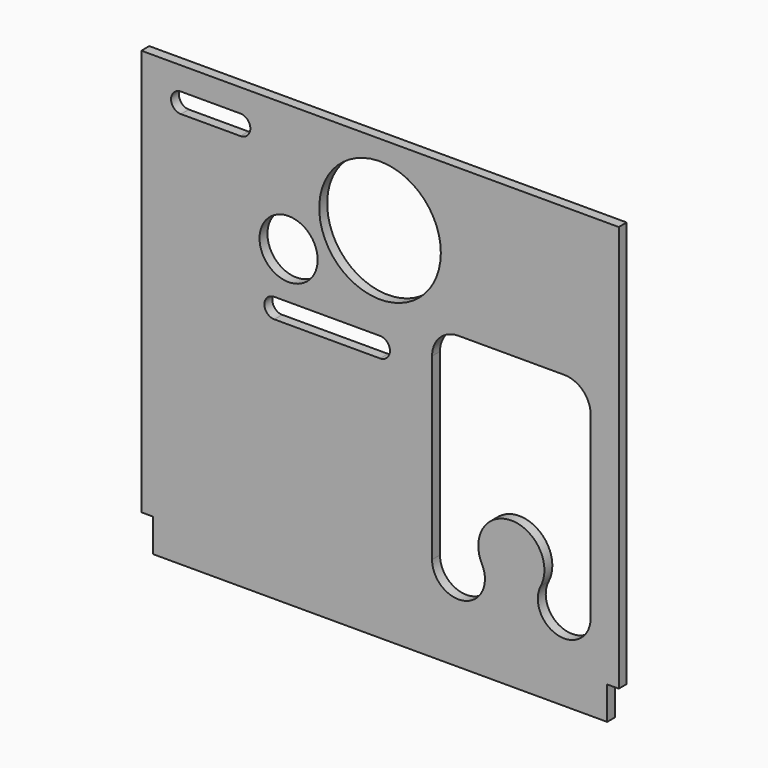
from build123d import *

# Parameters (mm, degrees)
F1_DEPTH = 2.38125
F3_DEPTH = 4.7635
F4_R     = 29.21
F5_DEPTH = 4.7635
F7_DEPTH = 4.7635
F8_R     = 13.97
F9_DEPTH = 4.7635


with BuildPart() as f1:
    # F0 (on Front) → F1 (new body, symmetric)
    with BuildSketch(Plane.XZ):
        Polygon((114.696875, -97.63125), (114.696875, 97.63125), (-114.696875, 97.63125), (-114.696875, -97.63125), (-109.140625, -97.63125), (-109.140625, -113.50625), (109.140625, -113.50625), (109.140625, -97.63125), align=None)
    extrude(amount=F1_DEPTH, both=True)

    # F2 (on face) → F3 (cut, through all)
    with BuildSketch(Plane.XZ.offset(2.38125)):
        with BuildLine():
            Line((25.003125, 13.88461), (25.003125, -72.23125))
            ThreePointArc((25.003125, -72.23125), (40.696544, -84.573432), (48.992014, -66.41309))
            ThreePointArc((48.992014, -66.41309), (63.103125, -43.26539), (77.214236, -66.41309))
            ThreePointArc((77.214236, -66.41309), (85.509706, -84.573432), (101.203125, -72.23125))
            Line((101.203125, -72.23125), (101.203125, 13.88461))
            ThreePointArc((101.203125, 13.88461), (97.483381, 22.864866), (88.503125, 26.58461))
            Line((88.503125, 26.58461), (37.703125, 26.58461))
            ThreePointArc((37.703125, 26.58461), (28.722869, 22.864866), (25.003125, 13.88461))
        make_face()
    extrude(amount=-F3_DEPTH, mode=Mode.SUBTRACT)

    # F4 (on face) → F5 (cut, through all)
    with BuildSketch(Plane.XZ.offset(2.38125)):
        with Locations((0, 58.89625)):
            Circle(F4_R)
    extrude(amount=-F5_DEPTH, mode=Mode.SUBTRACT)

    # F6 (on face) → F7 (cut, through all)
    with BuildSketch(Plane.XZ.offset(2.38125)):
        with BuildLine():
            ThreePointArc((-50.8, 14.2875), (-55.5625, 9.525), (-50.8, 4.7625))
            Line((-50.8, 4.7625), (0, 4.7625))
            ThreePointArc((0, 4.7625), (4.7625, 9.525), (0, 14.2875))
            Line((0, 14.2875), (-50.8, 14.2875))
        make_face()
        with BuildLine():
            Line((-67.071875, 86.51875), (-95.646875, 86.51875))
            ThreePointArc((-95.646875, 86.51875), (-100.409375, 81.75625), (-95.646875, 76.99375))
            Line((-95.646875, 76.99375), (-67.071875, 76.99375))
            ThreePointArc((-67.071875, 76.99375), (-62.309375, 81.75625), (-67.071875, 86.51875))
        make_face()
    extrude(amount=-F7_DEPTH, mode=Mode.SUBTRACT)

    # F8 (on face) → F9 (cut, through all)
    with BuildSketch(Plane.XZ.offset(2.38125)):
        with Locations((-43.939427, 36.715232)):
            Circle(F8_R)
    extrude(amount=-F9_DEPTH, mode=Mode.SUBTRACT)


solid = f1.part
